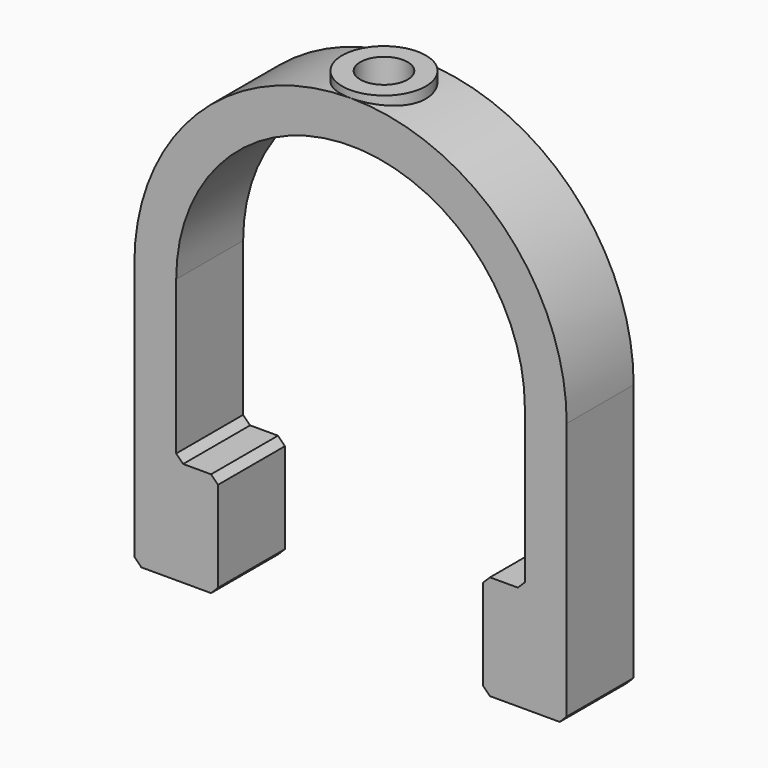
from build123d import *

# Parameters (mm, degrees)
F1_DEPTH = 6
F2_SIZE2 = 1
F2_SIZE  = 1
F4_R     = 6
F5_DEPTH = 1.5861874485
F6_D     = 6.8


with BuildPart() as f1:
    # F0 (on Front) → F1 (new body, symmetric)
    with BuildSketch(Plane.XZ):
        with BuildLine():
            ThreePointArc((-25, 0), (0, 25), (25, 0))
            Line((25, 0), (25, -23))
            Line((25, -23), (19, -23))
            Line((19, -23), (19, -38))
            Line((19, -38), (31, -38))
            Line((31, -38), (31, 0))
            ThreePointArc((31, 0), (0, 31), (-31, 0))
            Line((-31, 0), (-31, -38))
            Line((-31, -38), (-19, -38))
            Line((-19, -38), (-19, -23))
            Line((-19, -23), (-25, -23))
            Line((-25, -23), (-25, 0))
        make_face()
    extrude(amount=F1_DEPTH, both=True)

    # F2
    f2_edges = [f1.edges().sort_by_distance(p)[0] for p in [
        (-25, 0, -23),
        (-19, 0, -23),
        (-19, 0, -38),
        (-31, 0, -38),
        (19, 0, -38),
        (31, 0, -38),
        (25, 0, -23),
        (19, 0, -23),
    ]]
    chamfer(f2_edges, length=F2_SIZE, length2=F2_SIZE2)

    # F4 (on offset) → F5 (join, through all)
    with BuildSketch(Plane.XY.offset(32)):
        Circle(F4_R)
    extrude(amount=-F5_DEPTH)

    # F6 (through all)
    with Locations(Plane.XY.offset(32)):
        with Locations((0, 0)):
            Hole(F6_D / 2)


solid = f1.part
